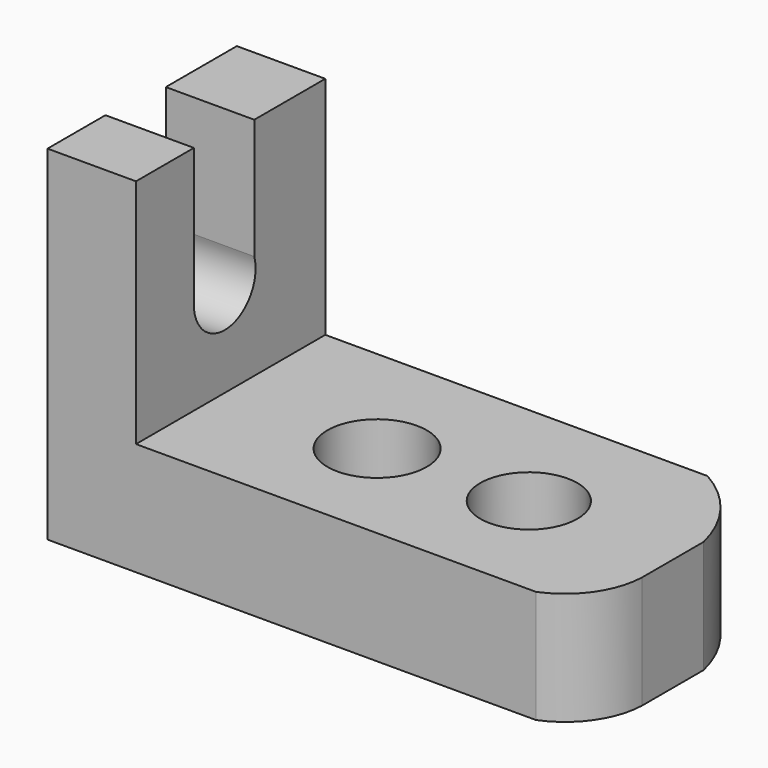
from build123d import *

# Parameters (mm, degrees)
F1_DEPTH  = 25.4
F2_DEPTH  = 15.24
F3_DEPTH  = 25.4
F4_DEPTH  = 10.414
F5_R      = 8.5275246161
F5_R_2    = 8.3340687874
F6_DEPTH  = 25.4
F7_R      = 6.6367792204
F8_DEPTH  = 25.4
F10_DEPTH = 63.246
F12_DEPTH = 25.4
F14_DEPTH = 25.4
F15_DEPTH = 72.644
F16_DEPTH = 3.556
F17_DEPTH = 4.572


with BuildPart() as f1:
    # F0 (on Front) → F1 (new body)
    with BuildSketch(Plane.XZ):
        Polygon((-73.6526176333, 52.2545948625), (-73.6526176333, 0), (-6.6675012931, 0), (-6.6675012931, 19.3822681904), (-58.4569200873, 19.3822681904), (-58.4569200873, 52.2545948625), align=None)
    extrude(amount=F1_DEPTH)

    # F2 (add): a face of the model
    f2_faces = [f1.faces().sort_by_distance(p)[0] for p in [
        (-47.3547272267, 0, 16.950424852),
    ]]
    extrude(f2_faces, amount=F2_DEPTH)

    # F3 (add): a face of the model
    f3_faces = [f1.faces().sort_by_distance(p)[0] for p in [
        (-6.6675012931, -5.08, 9.6911340952),
    ]]
    extrude(f3_faces, amount=F3_DEPTH)

    # F4 (add): a face of the model
    f4_faces = [f1.faces().sort_by_distance(p)[0] for p in [
        (-66.0547688603, -5.08, 52.2545948625),
    ]]
    extrude(f4_faces, amount=F4_DEPTH)

    # F5 (on face) → F6 (cut)
    with BuildSketch(Plane.XY.offset(19.3822681904)):
        with Locations((-32.3949557078, -6.2189701391)):
            Circle(F5_R)
        with Locations((-7.0090550705, -5.3727734512)):
            Circle(F5_R_2)
    extrude(amount=-F6_DEPTH, mode=Mode.SUBTRACT)

    # F7 (on face) → F8 (cut)
    with BuildSketch(Plane.YZ.offset(-58.4569200873)):
        with Locations((-6.3573834486, 35.5083160102)):
            Circle(F7_R)
    extrude(amount=-F8_DEPTH, mode=Mode.SUBTRACT)

    # F9 (on face) → F10 (cut)
    with BuildSketch(Plane.YZ.offset(-58.4569200873)):
        with BuildLine():
            Line((-12.9659945775, 62.6685948625), (-12.9659945775, 36.1191329772))
            ThreePointArc((-12.9659945775, 36.1191329772), (-7.0167461638, 42.1122602279), (0, 37.4137068119))
            Line((0, 37.4137068119), (0, 62.6685948625))
            Line((0, 62.6685948625), (-12.9659945775, 62.6685948625))
        make_face()
    extrude(amount=-F10_DEPTH, mode=Mode.SUBTRACT)

    # F11 (on face) → F12 (join)
    with BuildSketch(Plane.XY.offset(19.3822681904)):
        with BuildLine():
            ThreePointArc((18.7324987069, -13.2857691497), (16.2726896365, -20.59670587), (10.2370602665, -25.4))
            Line((10.2370602665, -25.4), (18.7324987069, -25.4))
            Line((18.7324987069, -25.4), (18.7324987069, -13.2857691497))
        make_face()
    extrude(amount=F12_DEPTH)

    # F13 (on face) → F14 (cut)
    with BuildSketch(Plane.XY.offset(19.3822681904)):
        with BuildLine():
            ThreePointArc((7.2008380666, 15.24), (14.5531964002, 8.8204791763), (18.7324987069, 0))
            Line((18.7324987069, 0), (18.7324987069, 15.24))
            Line((18.7324987069, 15.24), (7.2008380666, 15.24))
        make_face()
    extrude(amount=-F14_DEPTH, mode=Mode.SUBTRACT)

    # F15 (cut): a face of the model
    f15_faces = [f1.faces().sort_by_distance(p)[0] for p in [
        (16.4165308131, -22.484618829, 44.7822681904),
    ]]
    extrude(f15_faces, amount=-F15_DEPTH, mode=Mode.SUBTRACT)

    # F16 (cut): a face of the model
    f16_faces = [f1.faces().sort_by_distance(p)[0] for p in [
        (-66.0547688603, -19.1829972888, 62.6685948625),
    ]]
    extrude(f16_faces, amount=-F16_DEPTH, mode=Mode.SUBTRACT)

    # F17 (cut): a face of the model
    f17_faces = [f1.faces().sort_by_distance(p)[0] for p in [
        (-66.0547688603, 7.62, 62.6685948625),
    ]]
    extrude(f17_faces, amount=-F17_DEPTH, mode=Mode.SUBTRACT)


solid = f1.part
